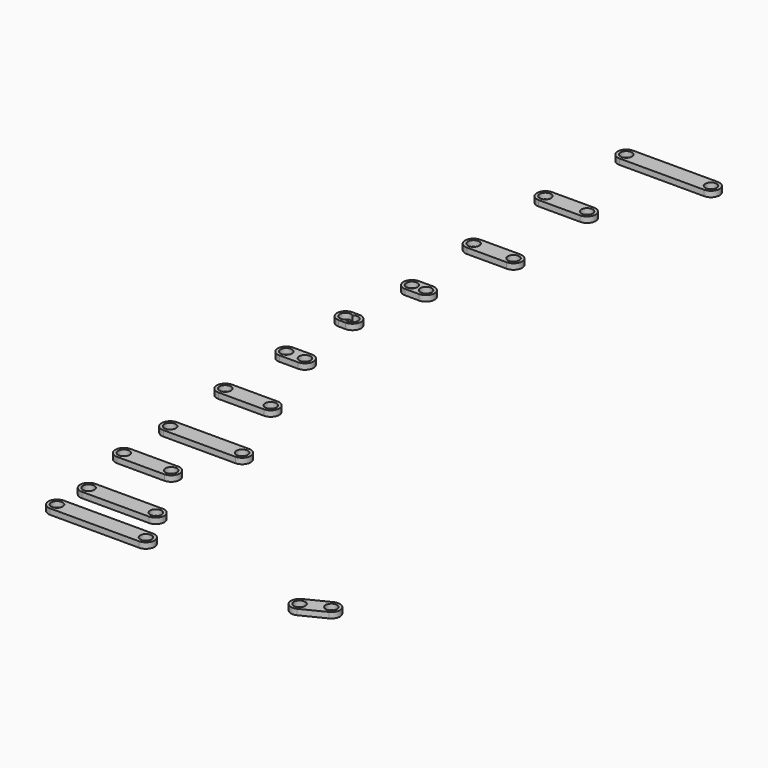
from build123d import *

# Parameters (mm, degrees)
F0_R     = 10
F1_DEPTH = 10


with BuildPart() as f1:
    # F0 (on Top) → F1 (new body)
    with BuildSketch(Plane.XY):
        with BuildLine():
            ThreePointArc((56.830433, 28.965518), (46.830433, 38.965518), (36.830433, 28.965518))
            ThreePointArc((36.830433, 28.965518), (46.830433, 18.965518), (56.830433, 28.965518))
        make_face()
        with Locations((-109.525867, 28.965518)):
            Circle(F0_R)
        with BuildLine():
            ThreePointArc((-109.525867, 43.965518), (-124.525867, 28.965518), (-109.525867, 13.965518))
            Line((-109.525867, 13.965518), (46.830433, 13.965518))
            ThreePointArc((46.830433, 13.965518), (61.830433, 28.965518), (46.830433, 43.965518))
            Line((46.830433, 43.965518), (-109.525867, 43.965518))
        make_face()
        with Locations((-109.525867, 28.965518)):
            Circle(F0_R, mode=Mode.SUBTRACT)
        with BuildLine():
            ThreePointArc((56.830433, 28.965518), (46.830433, 18.965518), (36.830433, 28.965518))
            ThreePointArc((36.830433, 28.965518), (46.830433, 38.965518), (56.830433, 28.965518))
        make_face(mode=Mode.SUBTRACT)
        with BuildLine():
            ThreePointArc((21.495316, 94.854057), (11.495316, 104.854057), (1.495316, 94.854057))
            ThreePointArc((1.495316, 94.854057), (11.495316, 84.854057), (21.495316, 94.854057))
        make_face()
        with Locations((-106.609284, 94.854057)):
            Circle(F0_R)
        with BuildLine():
            ThreePointArc((-106.609284, 109.854057), (-121.609284, 94.854057), (-106.609284, 79.854057))
            Line((-106.609284, 79.854057), (11.495316, 79.854057))
            ThreePointArc((11.495316, 79.854057), (26.495316, 94.854057), (11.495316, 109.854057))
            Line((11.495316, 109.854057), (-106.609284, 109.854057))
        make_face()
        with Locations((-106.609284, 94.854057)):
            Circle(F0_R, mode=Mode.SUBTRACT)
        with BuildLine():
            ThreePointArc((21.495316, 94.854057), (11.495316, 84.854057), (1.495316, 94.854057))
            ThreePointArc((1.495316, 94.854057), (11.495316, 104.854057), (21.495316, 94.854057))
        make_face(mode=Mode.SUBTRACT)
        with BuildLine():
            ThreePointArc((-40.518806, 206.129014), (-50.518806, 216.129014), (-60.518806, 206.129014))
            ThreePointArc((-60.518806, 206.129014), (-50.518806, 196.129014), (-40.518806, 206.129014))
        make_face()
        with Locations((-133.710176, 206.129014)):
            Circle(F0_R)
        with BuildLine():
            ThreePointArc((-133.710176, 221.129014), (-148.710176, 206.129014), (-133.710176, 191.129014))
            Line((-133.710176, 191.129014), (-50.518806, 191.129014))
            ThreePointArc((-50.518806, 191.129014), (-35.518806, 206.129014), (-50.518806, 221.129014))
            Line((-50.518806, 221.129014), (-133.710176, 221.129014))
        make_face()
        with Locations((-133.710176, 206.129014)):
            Circle(F0_R, mode=Mode.SUBTRACT)
        with BuildLine():
            ThreePointArc((-40.518806, 206.129014), (-50.518806, 196.129014), (-60.518806, 206.129014))
            ThreePointArc((-60.518806, 206.129014), (-50.518806, 216.129014), (-40.518806, 206.129014))
        make_face(mode=Mode.SUBTRACT)
        with BuildLine():
            ThreePointArc((2.948819, 307.760491), (-7.051181, 317.760491), (-17.051181, 307.760491))
            ThreePointArc((-17.051181, 307.760491), (-7.051181, 297.760491), (2.948819, 307.760491))
        make_face()
        with Locations((-133.710161, 307.760491)):
            Circle(F0_R)
        with BuildLine():
            ThreePointArc((-133.710161, 322.760491), (-148.710161, 307.760491), (-133.710161, 292.760491))
            Line((-133.710161, 292.760491), (-7.051181, 292.760491))
            ThreePointArc((-7.051181, 292.760491), (7.948819, 307.760491), (-7.051181, 322.760491))
            Line((-7.051181, 322.760491), (-133.710161, 322.760491))
        make_face()
        with Locations((-133.710161, 307.760491)):
            Circle(F0_R, mode=Mode.SUBTRACT)
        with BuildLine():
            ThreePointArc((2.948819, 307.760491), (-7.051181, 297.760491), (-17.051181, 307.760491))
            ThreePointArc((-17.051181, 307.760491), (-7.051181, 317.760491), (2.948819, 307.760491))
        make_face(mode=Mode.SUBTRACT)
        with BuildLine():
            ThreePointArc((-54.508108, 442.432686), (-64.508108, 452.432686), (-74.508108, 442.432686))
            ThreePointArc((-74.508108, 442.432686), (-64.508108, 432.432686), (-54.508108, 442.432686))
        make_face()
        with Locations((-144.508108, 442.432686)):
            Circle(F0_R)
        with BuildLine():
            ThreePointArc((-144.508108, 457.432686), (-159.508108, 442.432686), (-144.508108, 427.432686))
            Line((-144.508108, 427.432686), (-64.508108, 427.432686))
            ThreePointArc((-64.508108, 427.432686), (-49.508108, 442.432686), (-64.508108, 457.432686))
            Line((-64.508108, 457.432686), (-144.508108, 457.432686))
        make_face()
        with Locations((-144.508108, 442.432686)):
            Circle(F0_R, mode=Mode.SUBTRACT)
        with BuildLine():
            ThreePointArc((-54.508108, 442.432686), (-64.508108, 432.432686), (-74.508108, 442.432686))
            ThreePointArc((-74.508108, 442.432686), (-64.508108, 452.432686), (-54.508108, 442.432686))
        make_face(mode=Mode.SUBTRACT)
        with BuildLine():
            ThreePointArc((-105.181726, 580.848172), (-115.181726, 590.848172), (-125.181726, 580.848172))
            ThreePointArc((-125.181726, 580.848172), (-115.181726, 570.848172), (-105.181726, 580.848172))
        make_face()
        with Locations((-147.992626, 580.848172)):
            Circle(F0_R)
        with BuildLine():
            ThreePointArc((-147.992626, 595.848172), (-162.992626, 580.848172), (-147.992626, 565.848172))
            Line((-147.992626, 565.848172), (-115.181726, 565.848172))
            ThreePointArc((-115.181726, 565.848172), (-100.181726, 580.848172), (-115.181726, 595.848172))
            Line((-115.181726, 595.848172), (-147.992626, 595.848172))
        make_face()
        with Locations((-147.992626, 580.848172)):
            Circle(F0_R, mode=Mode.SUBTRACT)
        with BuildLine():
            ThreePointArc((-105.181726, 580.848172), (-115.181726, 570.848172), (-125.181726, 580.848172))
            ThreePointArc((-125.181726, 580.848172), (-115.181726, 590.848172), (-105.181726, 580.848172))
        make_face(mode=Mode.SUBTRACT)
        with BuildLine():
            ThreePointArc((-143.853916, 705.705236), (-146.673305, 709.198126), (-147.680766, 713.572397))
            ThreePointArc((-147.680766, 713.572397), (-146.673305, 717.946669), (-143.853916, 721.439558))
            ThreePointArc((-143.853916, 721.439558), (-160.027066, 713.572397), (-143.853916, 705.705236))
        make_face()
        with BuildLine():
            ThreePointArc((-143.853916, 721.439558), (-141.034528, 717.946669), (-140.027066, 713.572397))
            ThreePointArc((-140.027066, 713.572397), (-141.034528, 709.198126), (-143.853916, 705.705236))
            ThreePointArc((-143.853916, 705.705236), (-133.306495, 704.579859), (-127.680766, 713.572397))
            ThreePointArc((-127.680766, 713.572397), (-133.306495, 722.564936), (-143.853916, 721.439558))
        make_face()
        with BuildLine():
            ThreePointArc((-150.027066, 728.572397), (-165.027066, 713.572397), (-150.027066, 698.572397))
            Line((-150.027066, 698.572397), (-137.680766, 698.572397))
            ThreePointArc((-137.680766, 698.572397), (-122.680766, 713.572397), (-137.680766, 728.572397))
            Line((-137.680766, 728.572397), (-150.027066, 728.572397))
        make_face()
        with BuildLine():
            ThreePointArc((-143.853916, 705.705236), (-160.027066, 713.572397), (-143.853916, 721.439558))
            ThreePointArc((-143.853916, 721.439558), (-133.306495, 722.564936), (-127.680766, 713.572397))
            ThreePointArc((-127.680766, 713.572397), (-133.306495, 704.579859), (-143.853916, 705.705236))
        make_face(mode=Mode.SUBTRACT)
        with BuildLine():
            ThreePointArc((-101.943261, 842.882707), (-111.943261, 852.882707), (-121.943261, 842.882707))
            ThreePointArc((-121.943261, 842.882707), (-111.943261, 832.882707), (-101.943261, 842.882707))
        make_face()
        with Locations((-136.647791, 842.882707)):
            Circle(F0_R)
        with BuildLine():
            ThreePointArc((-136.647791, 857.882707), (-151.647791, 842.882707), (-136.647791, 827.882707))
            Line((-136.647791, 827.882707), (-111.943261, 827.882707))
            ThreePointArc((-111.943261, 827.882707), (-96.943261, 842.882707), (-111.943261, 857.882707))
            Line((-111.943261, 857.882707), (-136.647791, 857.882707))
        make_face()
        with Locations((-136.647791, 842.882707)):
            Circle(F0_R, mode=Mode.SUBTRACT)
        with BuildLine():
            ThreePointArc((-101.943261, 842.882707), (-111.943261, 832.882707), (-121.943261, 842.882707))
            ThreePointArc((-121.943261, 842.882707), (-111.943261, 852.882707), (-101.943261, 842.882707))
        make_face(mode=Mode.SUBTRACT)
        with BuildLine():
            ThreePointArc((-67.287847, 991.892412), (-77.287847, 1001.892412), (-87.287847, 991.892412))
            ThreePointArc((-87.287847, 991.892412), (-77.287847, 981.892412), (-67.287847, 991.892412))
        make_face()
        with Locations((-147.524267, 991.892412)):
            Circle(F0_R)
        with BuildLine():
            ThreePointArc((-147.524267, 1006.892412), (-162.524267, 991.892412), (-147.524267, 976.892412))
            Line((-147.524267, 976.892412), (-77.287847, 976.892412))
            ThreePointArc((-77.287847, 976.892412), (-62.287847, 991.892412), (-77.287847, 1006.892412))
            Line((-77.287847, 1006.892412), (-147.524267, 1006.892412))
        make_face()
        with Locations((-147.524267, 991.892412)):
            Circle(F0_R, mode=Mode.SUBTRACT)
        with BuildLine():
            ThreePointArc((-67.287847, 991.892412), (-77.287847, 981.892412), (-87.287847, 991.892412))
            ThreePointArc((-87.287847, 991.892412), (-77.287847, 1001.892412), (-67.287847, 991.892412))
        make_face(mode=Mode.SUBTRACT)
        with BuildLine():
            ThreePointArc((-75.487761, 1163.699522), (-85.487761, 1173.699522), (-95.487761, 1163.699522))
            ThreePointArc((-95.487761, 1163.699522), (-85.487761, 1153.699522), (-75.487761, 1163.699522))
        make_face()
        with Locations((-158.744261, 1163.699522)):
            Circle(F0_R)
        with BuildLine():
            ThreePointArc((-158.744261, 1178.699522), (-173.744261, 1163.699522), (-158.744261, 1148.699522))
            Line((-158.744261, 1148.699522), (-85.487761, 1148.699522))
            ThreePointArc((-85.487761, 1148.699522), (-70.487761, 1163.699522), (-85.487761, 1178.699522))
            Line((-85.487761, 1178.699522), (-158.744261, 1178.699522))
        make_face()
        with Locations((-158.744261, 1163.699522)):
            Circle(F0_R, mode=Mode.SUBTRACT)
        with BuildLine():
            ThreePointArc((-75.487761, 1163.699522), (-85.487761, 1153.699522), (-95.487761, 1163.699522))
            ThreePointArc((-95.487761, 1163.699522), (-85.487761, 1173.699522), (-75.487761, 1163.699522))
        make_face(mode=Mode.SUBTRACT)
        with BuildLine():
            ThreePointArc((9.681534, 1329.563036), (-0.318466, 1339.563036), (-10.318466, 1329.563036))
            ThreePointArc((-10.318466, 1329.563036), (-0.318466, 1319.563036), (9.681534, 1329.563036))
        make_face()
        with Locations((-149.417266, 1329.563036)):
            Circle(F0_R)
        with BuildLine():
            ThreePointArc((-149.417266, 1344.563036), (-164.417266, 1329.563036), (-149.417266, 1314.563036))
            Line((-149.417266, 1314.563036), (-0.318466, 1314.563036))
            ThreePointArc((-0.318466, 1314.563036), (14.681534, 1329.563036), (-0.318466, 1344.563036))
            Line((-0.318466, 1344.563036), (-149.417266, 1344.563036))
        make_face()
        with Locations((-149.417266, 1329.563036)):
            Circle(F0_R, mode=Mode.SUBTRACT)
        with BuildLine():
            ThreePointArc((9.681534, 1329.563036), (-0.318466, 1319.563036), (-10.318466, 1329.563036))
            ThreePointArc((-10.318466, 1329.563036), (-0.318466, 1339.563036), (9.681534, 1329.563036))
        make_face(mode=Mode.SUBTRACT)
        with BuildLine():
            ThreePointArc((385.013746, 26.240462), (372.716197, 35.972948), (366.069492, 21.768291))
            ThreePointArc((366.069492, 21.768291), (377.311295, 16.507977), (385.013746, 26.240462))
        make_face()
        with BuildLine():
            ThreePointArc((345.014148, 6.240462), (344.746633, 8.538011), (343.958402, 10.712634))
            ThreePointArc((343.958402, 10.712634), (325.281663, 3.942914), (345.014148, 6.240462))
        make_face()
        with BuildLine():
            ThreePointArc((328.30589, 19.656843), (321.597767, -0.467795), (341.722406, -7.175918))
            Line((341.722406, -7.175918), (381.722004, 12.824082))
            ThreePointArc((381.722004, 12.824082), (388.430127, 32.94872), (368.305488, 39.656843))
            Line((368.305488, 39.656843), (328.30589, 19.656843))
        make_face()
        with BuildLine():
            ThreePointArc((345.014148, 6.240462), (325.281663, 3.942914), (343.958402, 10.712634))
            ThreePointArc((343.958402, 10.712634), (344.746633, 8.538011), (345.014148, 6.240462))
        make_face(mode=Mode.SUBTRACT)
        with BuildLine():
            ThreePointArc((385.013746, 26.240462), (377.311295, 16.507977), (366.069492, 21.768291))
            ThreePointArc((366.069492, 21.768291), (372.716197, 35.972948), (385.013746, 26.240462))
        make_face(mode=Mode.SUBTRACT)
    extrude(amount=F1_DEPTH)


solid = f1.part
